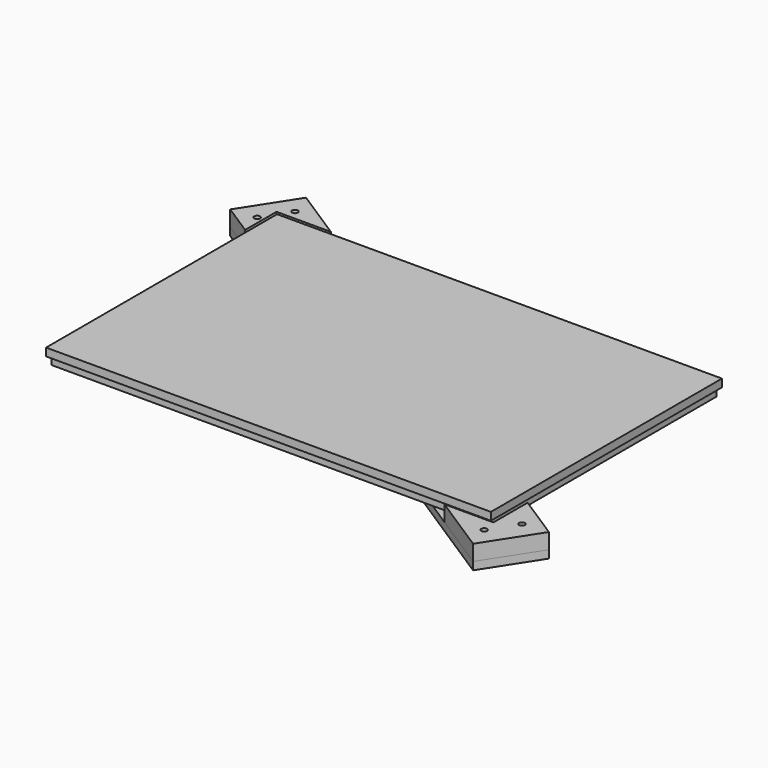
from build123d import *

# Parameters (mm, degrees)
F1_W     = 225
F1_H     = 145
F1_R     = 1.5
F2_DEPTH = 4
F3_R     = 1.5
F4_DEPTH = 4
F5_R     = 1.5
F6_DEPTH = 8
F7_DEPTH = 8
F8_START = 4
F1_W_2   = 228
F1_H_2   = 148
F8_DEPTH = 4
F9_SIZE  = 3


with BuildPart() as f2:
    # F1 (on Top) → F2 (new body)
    with BuildSketch(Plane.XY):
        with Locations((112.5, 72.5)):
            Rectangle(F1_W, F1_H)
        with Locations((220, 5)):
            Circle(F1_R, mode=Mode.SUBTRACT)
        with Locations((5, 140)):
            Circle(F1_R, mode=Mode.SUBTRACT)
        with Locations((112.5, 72.5)):
            Circle(F1_R, mode=Mode.SUBTRACT)
    extrude(amount=F2_DEPTH)


with BuildPart() as f4:
    # F3 (on Top) → F4 (new body)
    with BuildSketch(Plane.XY):
        Polygon((-1.4196310815, 164.9495525662), (-18.7540737608, 138.0512794432), (238.1876255728, -27.5333712384), (255.5220682521, -0.6350981154), align=None)
        with Locations((234.1155258917, -15.3917896204)):
            Circle(F3_R, mode=Mode.SUBTRACT)
        with BuildLine():
            ThreePointArc((214.1440217888, 6.9893514497), (213.6957172368, 9.062760003), (215.76912579, 9.511064555))
            Line((215.76912579, 9.511064555), (224.174836141, 4.0940512177))
            ThreePointArc((224.174836141, 4.0940512177), (224.6792556664, 3.551237839), (224.8622841404, 2.8331946651))
            ThreePointArc((224.8622841404, 2.8331946651), (224.0803273143, 1.516223139), (222.5497321398, 1.5723381125))
            Line((222.5497321398, 1.5723381125), (214.1440217888, 6.9893514497))
        make_face(mode=Mode.SUBTRACT)
        with Locations((242.7827472313, -1.9426530589)):
            Circle(F3_R, mode=Mode.SUBTRACT)
        with BuildLine():
            ThreePointArc((31.693104493, 131.7135595833), (32.9515809781, 132.5849852467), (34.4576492306, 132.311298986))
            Line((34.4576492306, 132.311298986), (199.209572109, 26.1378375755))
            ThreePointArc((199.209572109, 26.1378375755), (200.0809977724, 24.8793610904), (199.8073115117, 23.3732928379))
            Line((199.8073115117, 23.3732928379), (193.306895507, 13.2864404167))
            ThreePointArc((193.306895507, 13.2864404167), (192.0484190219, 12.4150147533), (190.5423507694, 12.688701014))
            Line((190.5423507694, 12.688701014), (25.790427891, 118.8621624245))
            ThreePointArc((25.790427891, 118.8621624245), (24.9190022276, 120.1206389096), (25.1926884883, 121.6267071621))
            Line((25.1926884883, 121.6267071621), (31.693104493, 131.7135595833))
        make_face(mode=Mode.SUBTRACT)
        with Locations((-6.01475274, 139.3588343867)):
            Circle(F3_R, mode=Mode.SUBTRACT)
        with BuildLine():
            ThreePointArc((0.825163859, 140.9059487823), (0.376859307, 142.9793573355), (2.4502678602, 143.4276618875))
            Line((2.4502678602, 143.4276618875), (10.8559782112, 138.0106485503))
            ThreePointArc((10.8559782112, 138.0106485503), (11.3603977366, 137.4678351715), (11.5434262106, 136.7497919976))
            ThreePointArc((11.5434262106, 136.7497919976), (10.7614693844, 135.4328204716), (9.23087421, 135.488935445))
            Line((9.23087421, 135.488935445), (0.825163859, 140.9059487823))
        make_face(mode=Mode.SUBTRACT)
        with Locations((2.6524685996, 152.8079709482)):
            Circle(F3_R, mode=Mode.SUBTRACT)
    extrude(amount=-F4_DEPTH)

    # F9
    f9_edges = [f4.edges().sort_by_distance(p)[0] for p in [
        (232.615526, -15.39179, -4),
        (241.282747, -1.942653, -4),
        (1.152469, 152.807971, -4),
        (-7.514753, 139.358834, -4),
    ]]
    chamfer(f9_edges, length=F9_SIZE)


with BuildPart() as f6:
    # F5 (on face) → F6 (new body)
    with BuildSketch(Plane.XY):
        Polygon((24.8813987626, 148), (-1.4196310815, 164.9495525662), (-18.7540737608, 138.0512794432), (-3, 127.8986541307), (-3, 148), align=None)
        with Locations((-6.01475274, 139.3588343867)):
            Circle(F5_R, mode=Mode.SUBTRACT)
        with Locations((2.6524685996, 152.8079709482)):
            Circle(F5_R, mode=Mode.SUBTRACT)
    extrude(amount=F6_DEPTH)


with BuildPart() as f7:
    # F5 (on face) → F7 (new body)
    with BuildSketch(Plane.XY):
        Polygon((255.5220682521, -0.6350981154), (233, 13.879123647), (233, -8), (207.877221927, -8), (238.1876255728, -27.5333712384), align=None)
        with Locations((234.1155258917, -15.3917896204)):
            Circle(F5_R, mode=Mode.SUBTRACT)
        with Locations((242.7827472313, -1.9426530589)):
            Circle(F5_R, mode=Mode.SUBTRACT)
    extrude(amount=F7_DEPTH)


with BuildPart() as f8:
    # F1 (on Top) → F8 (new body)
    with BuildSketch(Plane.XY.offset(F8_START)):
        with Locations((112.5, 72.5)):
            Rectangle(F1_W_2, F1_H_2)
        with Locations((112.5, 72.5)):
            Rectangle(F1_W, F1_H, mode=Mode.SUBTRACT)
        with Locations((112.5, 72.5)):
            Rectangle(F1_W, F1_H)
        with Locations((220, 5)):
            Circle(F1_R, mode=Mode.SUBTRACT)
        with Locations((5, 140)):
            Circle(F1_R, mode=Mode.SUBTRACT)
        with Locations((112.5, 72.5)):
            Circle(F1_R, mode=Mode.SUBTRACT)
        with Locations((5, 140)):
            Circle(F1_R)
        with Locations((220, 5)):
            Circle(F1_R)
        with Locations((112.5, 72.5)):
            Circle(F1_R)
    extrude(amount=F8_DEPTH)


solid = Compound([f2.part, f4.part, f6.part, f7.part, f8.part])
